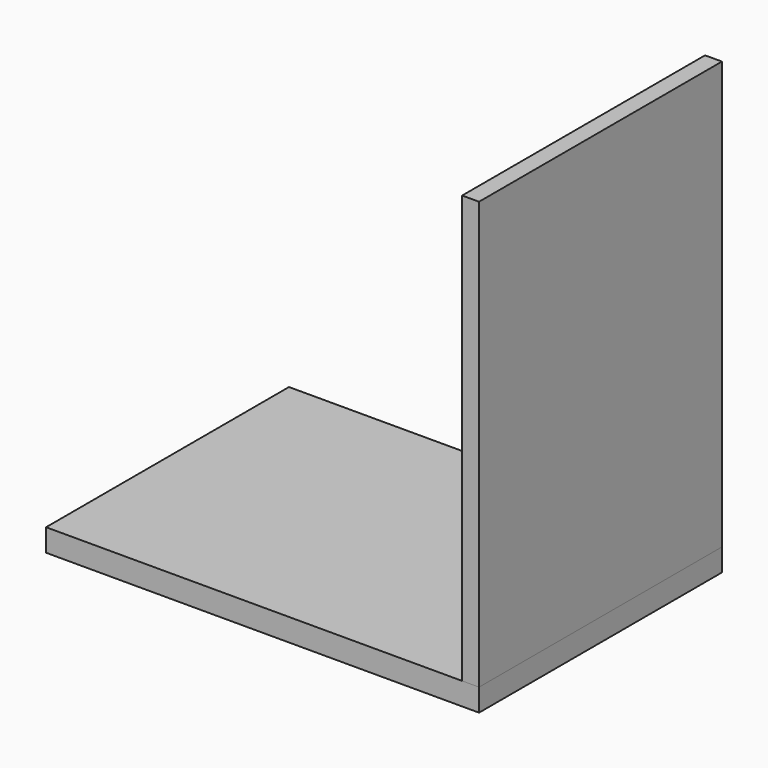
from build123d import *

# Parameters (mm, degrees)
F0_W     = 3850
F0_H     = 2700
F1_DEPTH = 200
F3_DEPTH = 3800


with BuildPart() as f1:
    # F0 (on Top) → F1 (new body)
    with BuildSketch(Plane.XY):
        Rectangle(F0_W, F0_H)
    extrude(amount=F1_DEPTH)


with BuildPart() as f3:
    # F2 (on face) → F3 (new body)
    with BuildSketch(Plane.XY.offset(200)):
        Polygon((1775, 1150), (1775, -1350), (1925, -1350), (1925, 1350), (1775, 1350), align=None)
    extrude(amount=F3_DEPTH)


solid = Compound([f1.part, f3.part])
